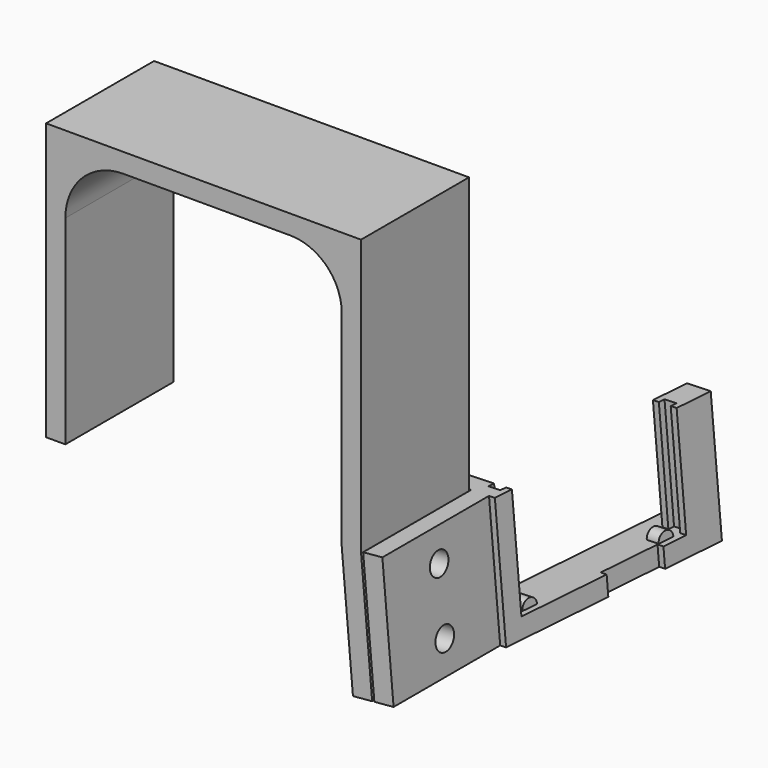
from build123d import *

# Parameters (mm, degrees)
PAD001_DEPTH            = 21
SKETCH_W                = 21
SKETCH_H                = 20
SKETCH_R                = 1.8
PAD017_DEPTH            = 3
PAD026_DEPTH            = 1
PAD025_DEPTH            = 1
PAD027_DEPTH            = 1
SKETCH026_W             = 21
SKETCH026_H             = 20
SKETCH026_R             = 1.8
PAD024_DEPTH            = 3
BOX_W                   = 38
BOX_H                   = 3
BOX_DEPTH               = 3
SKETCH030_W             = 3
SKETCH030_H             = 3
PAD031_DEPTH            = 20
BODY004_ROLL_ANGLE      = 0.43688
BODY004_PITCH_ANGLE     = -4.980925
BODY004_PLACEMENT_ANGLE = -5.019002


with BuildPart() as clip:
    # Sketch001 → Pad001 (new body)
    with BuildSketch(Plane.XZ):
        with BuildLine():
            Line((1, 43), (-48, 43))
            Line((-48, 0), (-48, 43))
            Line((-45, 0), (-48, 0))
            Line((-45, 31), (-45, 0))
            ThreePointArc((-36, 40), (-42.363961, 37.363961), (-45, 31))
            Line((-10, 40), (-36, 40))
            ThreePointArc((-2, 32), (-4.343146, 37.656854), (-10, 40))
            Line((-2, 32), (-2, 0))
            Line((1, 0), (-2, 0))
            Line((1, 43), (1, 0))
        make_face()
    extrude(amount=PAD001_DEPTH)

    # Sketch → Pad017 (join)
    with BuildSketch(Plane(origin=(-2, 0, 0), x_dir=(0, 1, 0), z_dir=(0.996195, 0, 0.087156))):
        with Locations((-10.5, -10)):
            Rectangle(SKETCH_W, SKETCH_H)
        with Locations((-11, -5)):
            Circle(SKETCH_R, mode=Mode.SUBTRACT)
        with Locations((-10, -15)):
            Circle(SKETCH_R, mode=Mode.SUBTRACT)
    extrude(amount=PAD017_DEPTH)


with BuildPart() as frame:
    # Sketch024 → Pad026 (new body, symmetric)
    with BuildSketch(Plane.YZ):
        with BuildLine():
            Line((0, 20), (0, 0))
            Line((0, 0), (38, 0))
            Line((38, 0), (38, 20))
            Line((38, 20), (33, 20))
            Line((33, 20), (33, 3))
            Line((33, 3), (30.8, 3))
            ThreePointArc((30.8, 3), (29.5, 4.3), (28.2, 3))
            Line((6.8, 3), (28.2, 3))
            ThreePointArc((6.8, 3), (5.5, 4.3), (4.2, 3))
            Line((2, 3), (4.2, 3))
            Line((2, 20), (2, 3))
            Line((0, 20), (2, 20))
        make_face()
    extrude(amount=PAD026_DEPTH, both=True)

    # Sketch023 → Pad025 (join)
    with BuildSketch(Plane.YZ.offset(1)):
        Polygon((3, 3), (3, 20), (0, 20), (0, 0), (18, 0), (18, 3), align=None)
        Polygon((38, 0), (38, 20), (32, 20), (32, 3), (28, 3), (28, 0), align=None)
    extrude(amount=PAD025_DEPTH)

    # Sketch025 → Pad027 (join)
    with BuildSketch(Plane.YZ.offset(-1)):
        Polygon((3, 3), (3, 20), (0, 20), (0, 0), (38, 0), (38, 20), (32, 20), (32, 3), align=None)
    extrude(amount=-PAD027_DEPTH)

    # Sketch026 → Pad024 (join)
    with BuildSketch(Plane(origin=(-2, 0, 0), x_dir=(-0.087156, 0.996195, 0), z_dir=(0.996195, 0.087156, 0))):
        with Locations((-10.5, 10)):
            Rectangle(SKETCH026_W, SKETCH026_H)
        with Locations((-10.5, 15)):
            Circle(SKETCH026_R, mode=Mode.SUBTRACT)
        with Locations((-10.5, 5)):
            Circle(SKETCH026_R, mode=Mode.SUBTRACT)
    extrude(amount=PAD024_DEPTH)

    # Box → Box (join)
    with BuildSketch(Plane.YZ.offset(-5)):
        with Locations((19, 1.5)):
            Rectangle(BOX_W, BOX_H)
    extrude(amount=BOX_DEPTH)

    # Sketch030 → Pad031 (join)
    with BuildSketch(Plane.XY):
        with Locations((-3.5, 1.5)):
            Rectangle(SKETCH030_W, SKETCH030_H)
    extrude(amount=PAD031_DEPTH)


with BuildPart() as frame_1:
    # Body004 roll: moved
    add(frame.part.rotate(Axis((0, 0, 0), (1, 0, 0)), BODY004_ROLL_ANGLE))


with BuildPart() as frame_2:
    # Body004 pitch: moved
    add(frame_1.part.rotate(Axis((0, 0, 0), (0, 1, 0)), BODY004_PITCH_ANGLE))


with BuildPart() as frame_3:
    # Body004 placement: moved
    add(frame_2.part.moved(Location((5, -0.1, -19.5))).rotate(Axis((5, -0.1, -19.5), (0, 0, 1)), BODY004_PLACEMENT_ANGLE))


solid = Compound([clip.part, frame_3.part])
